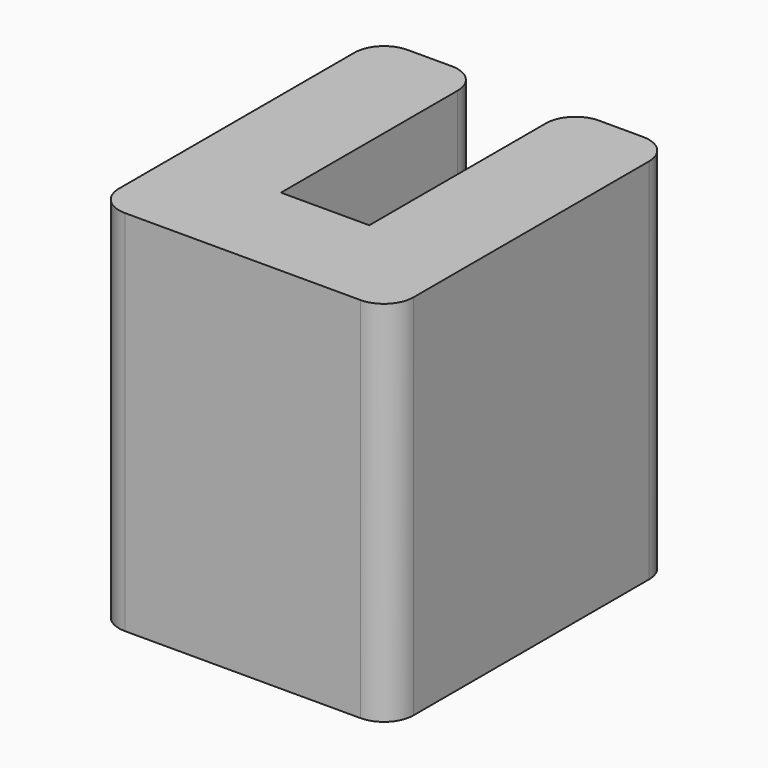
from build123d import *

# Parameters (mm, degrees)
PAD_DEPTH = 10
FILLET_R  = 0.8


with BuildPart() as part:
    # Sketch → Pad (new body)
    with BuildSketch(Plane.XY):
        Polygon((-4, 4.8), (-4, -4.8), (4, -4.8), (4, 4.8), (1.2, 4.8), (1.2, -2), (-1.2, -2), (-1.2, 4.8), align=None)
    extrude(amount=PAD_DEPTH)

    # Fillet
    fillet_edges = [part.edges().sort_by_distance(p)[0] for p in [
        (-4, -4.8, 5),
        (4, -4.8, 5),
        (4, 4.8, 5),
        (1.2, 4.8, 5),
        (-4, 4.8, 5),
        (-1.2, 4.8, 5),
    ]]
    fillet(fillet_edges, radius=FILLET_R)


solid = part.part
